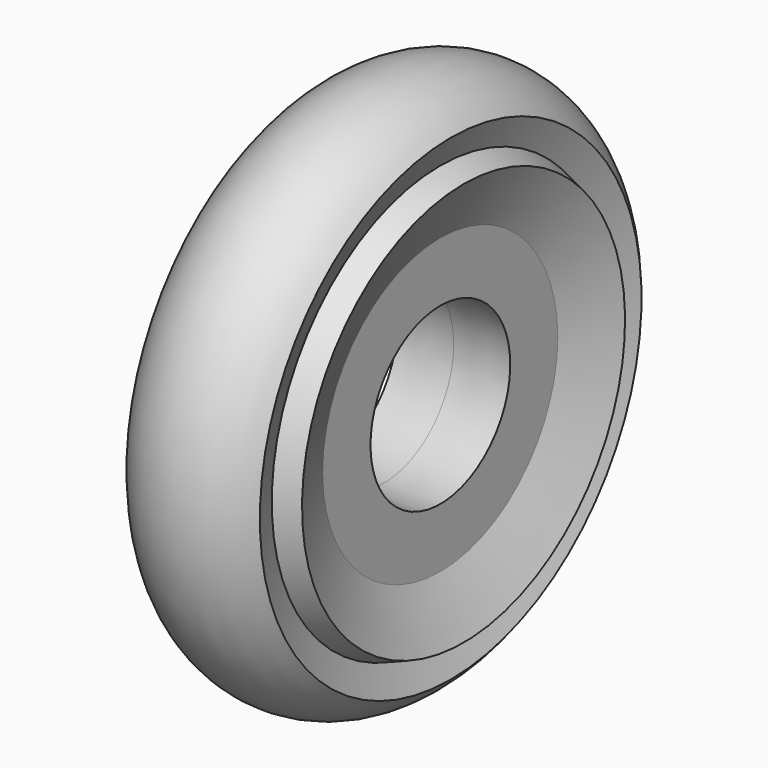
from build123d import *


with BuildPart() as f1:
    # F0 (on Front) → F1 (revolve)
    with BuildSketch(Plane.XZ):
        Polygon((11.339891, 17.567614), (11.315882, 29.56759), (0, 29.544949), (-11.315882, 29.56759), (-11.339891, 17.567614), (0, 17.544925), align=None)
        with BuildLine():
            Line((11.315882, 42.364633), (13.414693, 47.985575))
            ThreePointArc((13.414693, 47.985575), (0, 54.697207), (-13.414693, 47.985575))
            Line((-13.414693, 47.985575), (-11.315882, 42.364633))
            Line((-11.315882, 42.364633), (-16, 40.615623))
            Line((-16, 40.615623), (-11.315882, 29.56759))
            Line((-11.315882, 29.56759), (0, 29.544949))
            Line((0, 29.544949), (11.315882, 29.56759))
            Line((11.315882, 29.56759), (16, 40.615623))
            Line((16, 40.615623), (11.315882, 42.364633))
        make_face()
    revolve(axis=Axis((3.866119, 0, 0), (1, 0, 0)))


solid = f1.part
